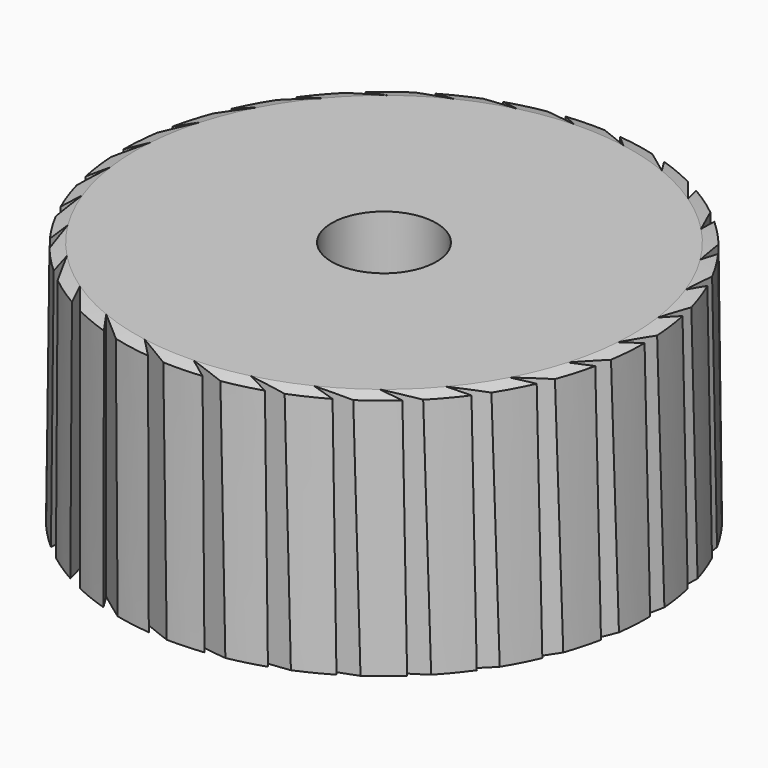
from build123d import *

# Parameters (mm, degrees)
F3_DEPTH = 25
F4_DEPTH = 533
F5_COUNT = 30


with BuildPart() as f1:
    # F0 (on Front) → F1 (revolve)
    with BuildSketch(Plane.XZ):
        Polygon((-175.327346, 114.130697), (-325.327346, 114.130697), (-334.986604, 111.542507), (-337.110436, -72.712033), (-325.327346, -75.869303), (-175.327346, -75.869303), align=None)
    revolve(axis=Axis((-135.327346, 0, 34.32256), (0, 0, 1)))


with BuildPart() as f3:
    # F2 (on face) → F3 (new body)
    with BuildSketch(Plane.XY.offset(114.130697)):
        Polygon((-33.506632, 200.964893), (1.557423, 131.767067), (-10.457697, 200.964893), align=None)
    extrude(amount=F3_DEPTH)


with BuildPart() as f4:
    # F3_face (on face) → F4 (new body)
    with BuildSketch(Plane(origin=(-14.135635, 177.898951, 139.130697), x_dir=(1, 0, 0), z_dir=(0, 0, 1))):
        Polygon((3.677938, 23.065942), (-19.370997, 23.065942), (15.693058, -46.131884), align=None)
    extrude(amount=-F4_DEPTH)


with BuildPart() as f5_1:
    # F5: instance of F4
    add(f4.part.rotate(Axis((-135.327346, 0, 111.542507), (0, 0, 1)), 1 * 360 / F5_COUNT))


with BuildPart() as f5_2:
    # F5: instance of F4
    add(f4.part.rotate(Axis((-135.327346, 0, 111.542507), (0, 0, 1)), 2 * 360 / F5_COUNT))


with BuildPart() as f5_3:
    # F5: instance of F4
    add(f4.part.rotate(Axis((-135.327346, 0, 111.542507), (0, 0, 1)), 3 * 360 / F5_COUNT))


with BuildPart() as f5_4:
    # F5: instance of F4
    add(f4.part.rotate(Axis((-135.327346, 0, 111.542507), (0, 0, 1)), 4 * 360 / F5_COUNT))


with BuildPart() as f5_5:
    # F5: instance of F4
    add(f4.part.rotate(Axis((-135.327346, 0, 111.542507), (0, 0, 1)), 5 * 360 / F5_COUNT))


with BuildPart() as f5_6:
    # F5: instance of F4
    add(f4.part.rotate(Axis((-135.327346, 0, 111.542507), (0, 0, 1)), 6 * 360 / F5_COUNT))


with BuildPart() as f5_7:
    # F5: instance of F4
    add(f4.part.rotate(Axis((-135.327346, 0, 111.542507), (0, 0, 1)), 7 * 360 / F5_COUNT))


with BuildPart() as f5_8:
    # F5: instance of F4
    add(f4.part.rotate(Axis((-135.327346, 0, 111.542507), (0, 0, 1)), 8 * 360 / F5_COUNT))


with BuildPart() as f5_9:
    # F5: instance of F4
    add(f4.part.rotate(Axis((-135.327346, 0, 111.542507), (0, 0, 1)), 9 * 360 / F5_COUNT))


with BuildPart() as f5_10:
    # F5: instance of F4
    add(f4.part.rotate(Axis((-135.327346, 0, 111.542507), (0, 0, 1)), 10 * 360 / F5_COUNT))


with BuildPart() as f5_11:
    # F5: instance of F4
    add(f4.part.rotate(Axis((-135.327346, 0, 111.542507), (0, 0, 1)), 11 * 360 / F5_COUNT))


with BuildPart() as f5_12:
    # F5: instance of F4
    add(f4.part.rotate(Axis((-135.327346, 0, 111.542507), (0, 0, 1)), 12 * 360 / F5_COUNT))


with BuildPart() as f5_13:
    # F5: instance of F4
    add(f4.part.rotate(Axis((-135.327346, 0, 111.542507), (0, 0, 1)), 13 * 360 / F5_COUNT))


with BuildPart() as f5_14:
    # F5: instance of F4
    add(f4.part.rotate(Axis((-135.327346, 0, 111.542507), (0, 0, 1)), 14 * 360 / F5_COUNT))


with BuildPart() as f5_15:
    # F5: instance of F4
    add(f4.part.rotate(Axis((-135.327346, 0, 111.542507), (0, 0, 1)), 15 * 360 / F5_COUNT))


with BuildPart() as f5_16:
    # F5: instance of F4
    add(f4.part.rotate(Axis((-135.327346, 0, 111.542507), (0, 0, 1)), 16 * 360 / F5_COUNT))


with BuildPart() as f5_17:
    # F5: instance of F4
    add(f4.part.rotate(Axis((-135.327346, 0, 111.542507), (0, 0, 1)), 17 * 360 / F5_COUNT))


with BuildPart() as f5_18:
    # F5: instance of F4
    add(f4.part.rotate(Axis((-135.327346, 0, 111.542507), (0, 0, 1)), 18 * 360 / F5_COUNT))


with BuildPart() as f5_19:
    # F5: instance of F4
    add(f4.part.rotate(Axis((-135.327346, 0, 111.542507), (0, 0, 1)), 19 * 360 / F5_COUNT))


with BuildPart() as f5_20:
    # F5: instance of F4
    add(f4.part.rotate(Axis((-135.327346, 0, 111.542507), (0, 0, 1)), 20 * 360 / F5_COUNT))


with BuildPart() as f5_21:
    # F5: instance of F4
    add(f4.part.rotate(Axis((-135.327346, 0, 111.542507), (0, 0, 1)), 21 * 360 / F5_COUNT))


with BuildPart() as f5_22:
    # F5: instance of F4
    add(f4.part.rotate(Axis((-135.327346, 0, 111.542507), (0, 0, 1)), 22 * 360 / F5_COUNT))


with BuildPart() as f5_23:
    # F5: instance of F4
    add(f4.part.rotate(Axis((-135.327346, 0, 111.542507), (0, 0, 1)), 23 * 360 / F5_COUNT))


with BuildPart() as f5_24:
    # F5: instance of F4
    add(f4.part.rotate(Axis((-135.327346, 0, 111.542507), (0, 0, 1)), 24 * 360 / F5_COUNT))


with BuildPart() as f5_25:
    # F5: instance of F4
    add(f4.part.rotate(Axis((-135.327346, 0, 111.542507), (0, 0, 1)), 25 * 360 / F5_COUNT))


with BuildPart() as f5_26:
    # F5: instance of F4
    add(f4.part.rotate(Axis((-135.327346, 0, 111.542507), (0, 0, 1)), 26 * 360 / F5_COUNT))


with BuildPart() as f5_27:
    # F5: instance of F4
    add(f4.part.rotate(Axis((-135.327346, 0, 111.542507), (0, 0, 1)), 27 * 360 / F5_COUNT))


with BuildPart() as f5_28:
    # F5: instance of F4
    add(f4.part.rotate(Axis((-135.327346, 0, 111.542507), (0, 0, 1)), 28 * 360 / F5_COUNT))


with BuildPart() as f5_29:
    # F5: instance of F4
    add(f4.part.rotate(Axis((-135.327346, 0, 111.542507), (0, 0, 1)), 29 * 360 / F5_COUNT))


with BuildPart() as f1_1:
    add(f1.part)

    # F6: cut F4, F5_25
    add(f4.part, mode=Mode.SUBTRACT)
    add(f5_25.part, mode=Mode.SUBTRACT)

    # F7: cut F3, F5_1, F5_2
    add(f3.part, mode=Mode.SUBTRACT)
    add(f5_1.part, mode=Mode.SUBTRACT)
    add(f5_2.part, mode=Mode.SUBTRACT)

    # F8: cut F5_24, F5_23, F5_22, F5_21, F5_20
    add(f5_24.part, mode=Mode.SUBTRACT)
    add(f5_23.part, mode=Mode.SUBTRACT)
    add(f5_22.part, mode=Mode.SUBTRACT)
    add(f5_21.part, mode=Mode.SUBTRACT)
    add(f5_20.part, mode=Mode.SUBTRACT)

    # F9: cut F5_15, F5_16, F5_17, F5_18, F5_19
    add(f5_15.part, mode=Mode.SUBTRACT)
    add(f5_16.part, mode=Mode.SUBTRACT)
    add(f5_17.part, mode=Mode.SUBTRACT)
    add(f5_18.part, mode=Mode.SUBTRACT)
    add(f5_19.part, mode=Mode.SUBTRACT)

    # F10: cut F5_3, F5_4, F5_5, F5_7, F5_6
    add(f5_3.part, mode=Mode.SUBTRACT)
    add(f5_4.part, mode=Mode.SUBTRACT)
    add(f5_5.part, mode=Mode.SUBTRACT)
    add(f5_7.part, mode=Mode.SUBTRACT)
    add(f5_6.part, mode=Mode.SUBTRACT)

    # F11: cut F5_8, F5_9, F5_10, F5_11, F5_12, F5_13, F5_14
    add(f5_8.part, mode=Mode.SUBTRACT)
    add(f5_9.part, mode=Mode.SUBTRACT)
    add(f5_10.part, mode=Mode.SUBTRACT)
    add(f5_11.part, mode=Mode.SUBTRACT)
    add(f5_12.part, mode=Mode.SUBTRACT)
    add(f5_13.part, mode=Mode.SUBTRACT)
    add(f5_14.part, mode=Mode.SUBTRACT)

    # F12: cut F5_26, F5_27, F5_28, F5_29
    add(f5_26.part, mode=Mode.SUBTRACT)
    add(f5_27.part, mode=Mode.SUBTRACT)
    add(f5_28.part, mode=Mode.SUBTRACT)
    add(f5_29.part, mode=Mode.SUBTRACT)


solid = f1_1.part
